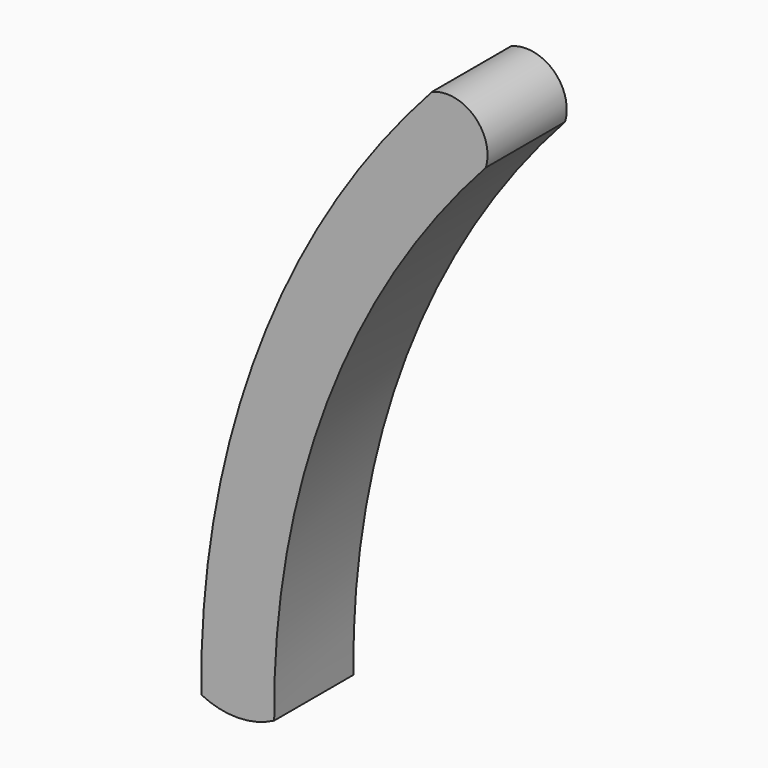
from build123d import *

# Parameters (mm, degrees)
F1_DEPTH = 4.826


with BuildPart() as f1:
    # F0 (on Front) → F1 (new body)
    with BuildSketch(Plane.XZ):
        with BuildLine():
            ThreePointArc((-21.569517, 0), (-18.983025, 14.531203), (-11.245646, 27.100163))
            ThreePointArc((-11.245646, 27.100163), (-11.81221, 29.117127), (-13.872515, 29.496972))
            ThreePointArc((-13.872515, 29.496972), (-22.306064, 15.797122), (-25.125275, -0.041523))
            ThreePointArc((-25.125275, -0.041523), (-23.342337, -0.453939), (-21.569517, 0))
        make_face()
    extrude(amount=F1_DEPTH)


solid = f1.part
